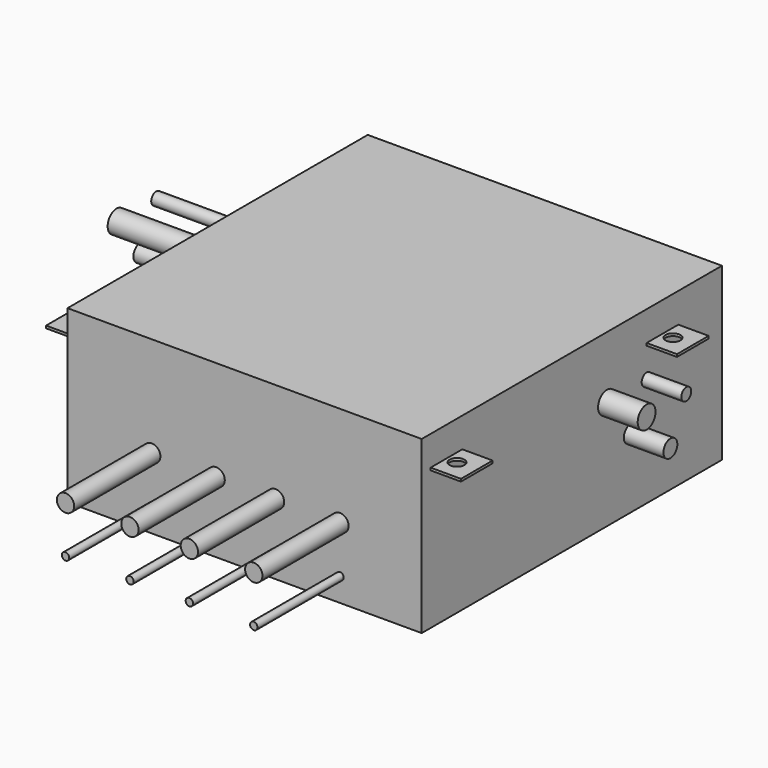
from build123d import *

# Parameters (mm, degrees)
F0_W          = 454.025
F0_H          = 219.075
F1_DEPTH      = 481.0125
F2_R          = 11.1125
F2_R_2        = 4.7625
F3_DEPTH      = 138.1125
F4_R          = 14.2875
F4_R_2        = 7.9375
F4_R_3        = 11.1125
F5_DEPTH      = 174.625
F5_DEPTH_BACK = 628.65
F7_W          = 38.89375
F7_H          = 50.8
F7_R          = 9.525
F8_DEPTH      = 3.175
F9_W          = 152.4
F9_H          = 219.075
F10_DEPTH     = 481.0135


with BuildPart() as f1:
    # F0 (on Front) → F1 (new body)
    with BuildSketch(Plane.XZ):
        with Locations((227.0125, 109.5375)):
            Rectangle(F0_W, F0_H)
    extrude(amount=-F1_DEPTH)

    # F2 (on Front) → F3 (join)
    with BuildSketch(Plane.XZ):
        with Locations((107.95, 90.4875)):
            Circle(F2_R)
        with Locations((107.95, 30.1625)):
            Circle(F2_R_2)
        with Locations((349.25, 90.4875)):
            Circle(F2_R)
        with Locations((349.25, 30.1625)):
            Circle(F2_R_2)
        with Locations((190.5, 90.4875)):
            Circle(F2_R)
        with Locations((266.7, 90.4875)):
            Circle(F2_R)
        with Locations((190.5, 30.1625)):
            Circle(F2_R_2)
        with Locations((266.7, 30.1625)):
            Circle(F2_R_2)
    extrude(amount=F3_DEPTH)

    # F4 (on face) → F5 (join, two sides)
    with BuildSketch(Plane.YZ.offset(454.025)) as f5_sk:
        with Locations((296.8625, 139.7)):
            Circle(F4_R)
        with Locations((360.3625, 139.7)):
            Circle(F4_R_2)
        with Locations((334.9625, 88.9)):
            Circle(F4_R_3)
    extrude(amount=F5_DEPTH)
    extrude(f5_sk.sketch, amount=-F5_DEPTH_BACK)

    # F7 (on offset) → F8 (join)
    with BuildSketch(Plane.XY.offset(180.975)):
        with Locations((-19.446875, 385.7625)):
            Rectangle(F7_W, F7_H)
        with Locations((-13.49375, 385.7625)):
            Circle(F7_R, mode=Mode.SUBTRACT)
        with Locations((-19.446875, 39.6875)):
            Rectangle(F7_W, F7_H)
        with Locations((-13.49375, 39.6875)):
            Circle(F7_R, mode=Mode.SUBTRACT)
        with Locations((473.471875, 385.7625)):
            Rectangle(F7_W, F7_H)
        with Locations((467.51875, 385.7625)):
            Circle(F7_R, mode=Mode.SUBTRACT)
        with Locations((473.471875, 39.6875)):
            Rectangle(F7_W, F7_H)
        with Locations((467.51875, 39.6875)):
            Circle(F7_R, mode=Mode.SUBTRACT)
    extrude(amount=-F8_DEPTH)

    # F9 (on face) → F10 (cut, through all)
    with BuildSketch(Plane.XZ):
        with Locations((581.025, 109.5375)):
            Rectangle(F9_W, F9_H)
    extrude(amount=-F10_DEPTH, mode=Mode.SUBTRACT)


solid = f1.part
